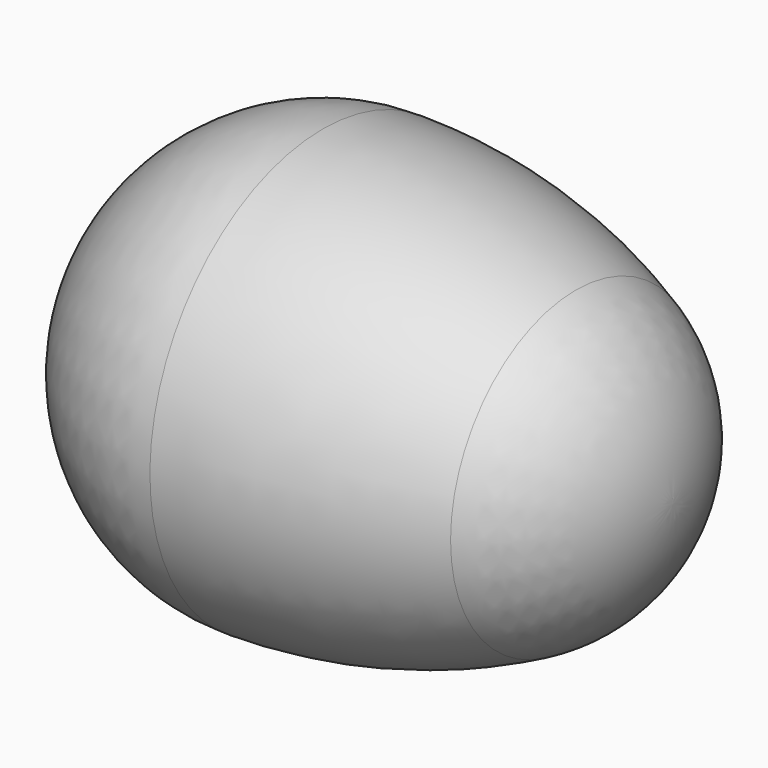
from build123d import *


with BuildPart() as f1:
    # F0 (on Front) → F1 (revolve)
    with BuildSketch(Plane.XZ):
        with BuildLine():
            ThreePointArc((24.580328, 15.216393), (12.625793, 19.534621), (0, 21))
            ThreePointArc((0, 21), (-14.849242, 14.849242), (-21, 0))
            Line((-21, 0), (34, 0))
            ThreePointArc((34, 0), (31.454507, 8.948028), (24.580328, 15.216393))
        make_face()
    revolve(axis=Axis((6.5, 0, 0), (1, 0, 0)))


solid = f1.part
